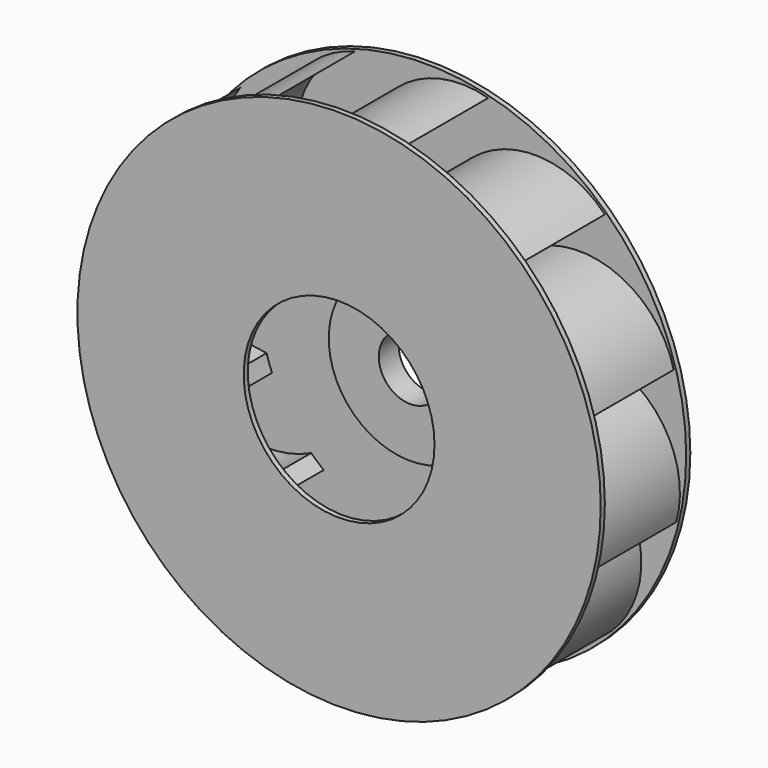
from build123d import *

# Parameters (mm, degrees)
SKETCH_R           = 251.288776
PAD_DEPTH          = 5
SKETCH001_R        = 78.787228
PAD001_DEPTH       = 19
POCKET_DEPTH       = 24.001
PAD002_DEPTH       = 100
POLARPATTERN_COUNT = 12
SKETCH004_R        = 252.739118
PAD003_DEPTH       = 5
SKETCH005_R        = 92.174815
POCKET001_DEPTH    = 5


with BuildPart() as part:
    # Sketch → Pad (new body)
    with BuildSketch(Plane.XZ):
        Circle(SKETCH_R)
    extrude(amount=PAD_DEPTH)

    # Sketch001 (on Face3 of Pad) → Pad001 (join)
    with BuildSketch(Plane.XZ.offset(5)):
        Circle(SKETCH001_R)
    extrude(amount=PAD001_DEPTH)

    # Sketch002 (on Face5 of Pad001) → Pocket (cut, through all)
    with BuildSketch(Plane.XZ.offset(24)):
        with BuildLine():
            ThreePointArc((-11.342065, 28.248508), (0.09221, -30.440304), (11.170717, 28.316704))
            ThreePointArc((10.466113, 29.352113), (10.658972, 28.725907), (11.170717, 28.316704))
            Line((10.466113, 29.352113), (10.466113, 36.343864))
            ThreePointArc((10.466113, 36.343864), (10.16761, 37.064515), (9.446959, 37.363018))
            Line((9.446959, 37.363018), (-9.589921, 37.363018))
            ThreePointArc((-9.589921, 37.363018), (-10.209482, 37.106387), (-10.466113, 36.486826))
            Line((-10.466113, 36.486826), (-10.466113, 29.544133))
            ThreePointArc((-11.342065, 28.248508), (-10.705649, 28.762158), (-10.466113, 29.544133))
        make_face()
    extrude(amount=-POCKET_DEPTH, mode=Mode.SUBTRACT)

    # Sketch003 (on Face3 of Pocket) → Pad002 (join)
    with BuildSketch(Plane.XZ.offset(5)):
        with BuildLine():
            ThreePointArc((-44.856391, 154.010557), (-52.493731, 151.577556), (-60, 148.766083))
            ThreePointArc((60, 241.615551), (-23.506563, 225.571041), (-60, 148.766083))
            ThreePointArc((60, 241.615551), (-10.953355, 219.986234), (-44.856391, 154.010557))
        make_face()
    pad002 = extrude(amount=PAD002_DEPTH)

    # PolarPattern: Pad002 ×12 about axis
    polarpattern_axis = Axis((0, -5, 0), (0, -1, 0))
    for i in range(1, POLARPATTERN_COUNT):
        add(pad002.rotate(polarpattern_axis, i * 360 / POLARPATTERN_COUNT))

    # Sketch004 (on Face55 of PolarPattern) → Pad003 (join)
    with BuildSketch(Plane.XZ.offset(105)):
        Circle(SKETCH004_R)
    extrude(amount=PAD003_DEPTH)

    # Sketch005 (on Face3 of Pad003) → Pocket001 (cut)
    with BuildSketch(Plane.XZ.offset(110)):
        Circle(SKETCH005_R)
    extrude(amount=-POCKET001_DEPTH, mode=Mode.SUBTRACT)


solid = part.part
